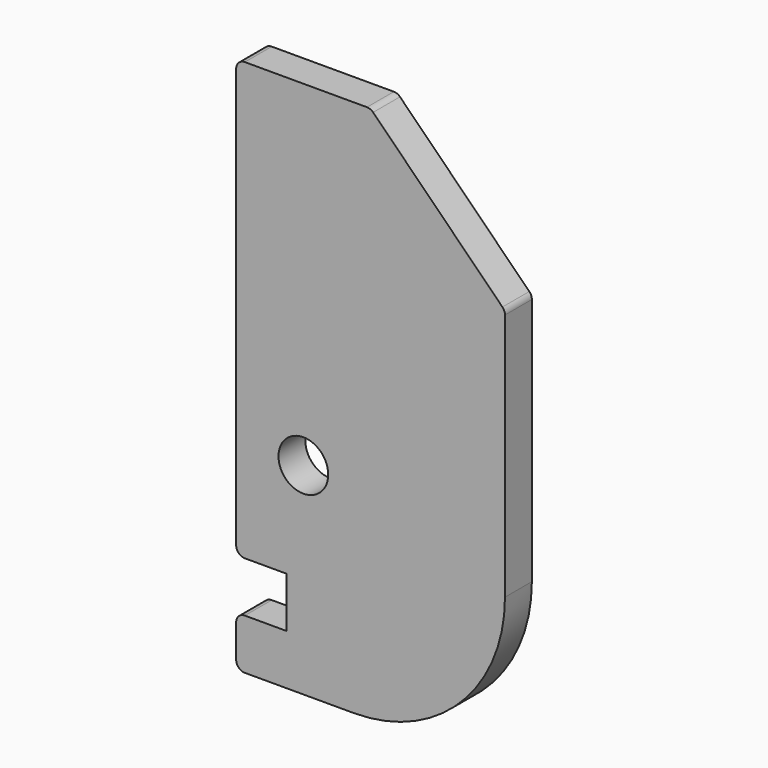
from build123d import *

# Parameters (mm, degrees)
F0_R     = 4.699
F1_DEPTH = 6.35


with BuildPart() as f1:
    # F0 (on Front) → F1 (new body)
    with BuildSketch(Plane.XZ):
        with BuildLine():
            ThreePointArc((-28.575, 0), (-8.369424, 8.369424), (0, 28.575))
            Line((0, 28.575), (0, 75.516133))
            ThreePointArc((0, 75.516133), (-0.125675, 76.147944), (-0.483567, 76.683567))
            Line((-0.483567, 76.683567), (-24.916433, 101.116433))
            ThreePointArc((-24.916433, 101.116433), (-25.452056, 101.474325), (-26.083867, 101.6))
            Line((-26.083867, 101.6), (-49.149, 101.6))
            ThreePointArc((-49.149, 101.6), (-50.316433, 101.116433), (-50.8, 99.949))
            Line((-50.8, 99.949), (-50.8, 20.701))
            ThreePointArc((-50.8, 20.701), (-50.316433, 19.533567), (-49.149, 19.05))
            Line((-49.149, 19.05), (-41.275, 19.05))
            Line((-41.275, 19.05), (-41.275, 9.525))
            Line((-41.275, 9.525), (-49.149, 9.525))
            ThreePointArc((-49.149, 9.525), (-50.316433, 9.041433), (-50.8, 7.874))
            Line((-50.8, 7.874), (-50.8, 1.651))
            ThreePointArc((-50.8, 1.651), (-50.316433, 0.483567), (-49.149, 0))
            Line((-49.149, 0), (-28.575, 0))
        make_face()
        with Locations((-38.1, 38.1)):
            Circle(F0_R, mode=Mode.SUBTRACT)
    extrude(amount=F1_DEPTH)


solid = f1.part
